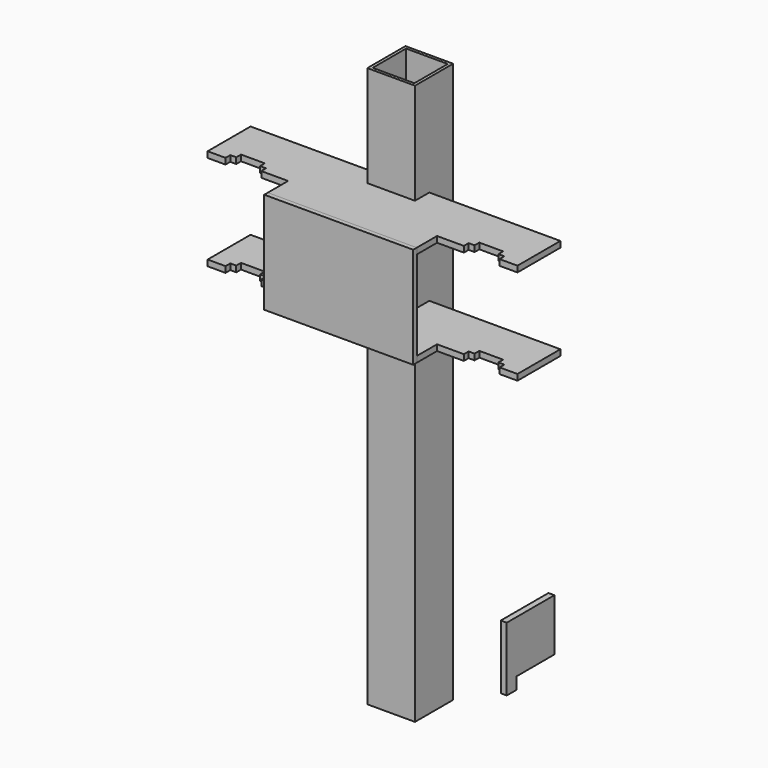
from build123d import *

# Parameters (mm, degrees)
F1_DEPTH  = 6.35
F3_W      = 50.8
F3_H      = 50.8
F3_W_2    = 44.45
F3_H_2    = 44.45
F4_DEPTH  = 596.9
F6_W      = 158.75
F6_H      = 107.95
F7_DEPTH  = 4.7625
F10_DEPTH = 6.35


with BuildPart() as f1:
    # F0 (on Top) → F1 (new body)
    with BuildSketch(Plane.XY):
        Polygon((52.4550286654, 0), (-87.2449713346, 0), (-87.2449713346, -57.15), (-68.1949713346, -57.15), (-68.1949713346, -50.8), (-61.8449713346, -50.8), (-61.8449713346, -44.45), (-36.4449713346, -44.45), (-36.4449713346, -50.8), (-30.0949713346, -50.8), (-30.0949713346, -57.15), (-1.5199713346, -57.15), (-1.5199713346, -84.1375), (157.2300286654, -84.1375), (157.2300286654, -57.15), (185.8050286654, -57.15), (185.8050286654, -50.8), (192.1550286654, -50.8), (192.1550286654, -44.45), (217.5550286654, -44.45), (217.5550286654, -50.8), (223.9050286654, -50.8), (223.9050286654, -57.15), (242.9550286654, -57.15), (242.9550286654, 0), (103.2550286654, 0), (103.2550286654, -19.05), (52.4550286654, -19.05), align=None)
    extrude(amount=F1_DEPTH)


with BuildPart() as f2_1:
    # F2: copy of F1
    add(f1.part.moved(Location((0, 0, 101.6))))


with BuildPart() as f4:
    # F3 (on Top) → F4 (new body)
    with BuildSketch(Plane.XY):
        with Locations((77.8550286654, 25.4)):
            Rectangle(F3_W, F3_H)
        with Locations((77.8550286654, 25.4)):
            Rectangle(F3_W_2, F3_H_2, mode=Mode.SUBTRACT)
    extrude(amount=F4_DEPTH)


with BuildPart() as f4_1:
    # F5: moved
    add(f4.part.moved(Location((0, -19.05, -381))))


with BuildPart() as f7:
    # F6 (on face) → F7 (new body)
    with BuildSketch(Plane.XZ.offset(84.1375)):
        with Locations((77.8550286654, 53.975)):
            Rectangle(F6_W, F6_H)
    extrude(amount=F7_DEPTH)


with BuildPart() as f10:
    # F9 (on offset) → F10 (new body)
    with BuildSketch(Plane.YZ.offset(230.2550286654)):
        Polygon((-50.8, -282.1055569993), (0, -282.1055569993), (0, -226.4795569993), (-63.5, -226.4795569993), (-63.5, -294.8055569993), (-50.8, -294.8055569993), align=None)
    extrude(amount=F10_DEPTH)


solid = Compound([f1.part, f2_1.part, f4_1.part, f7.part, f10.part])
